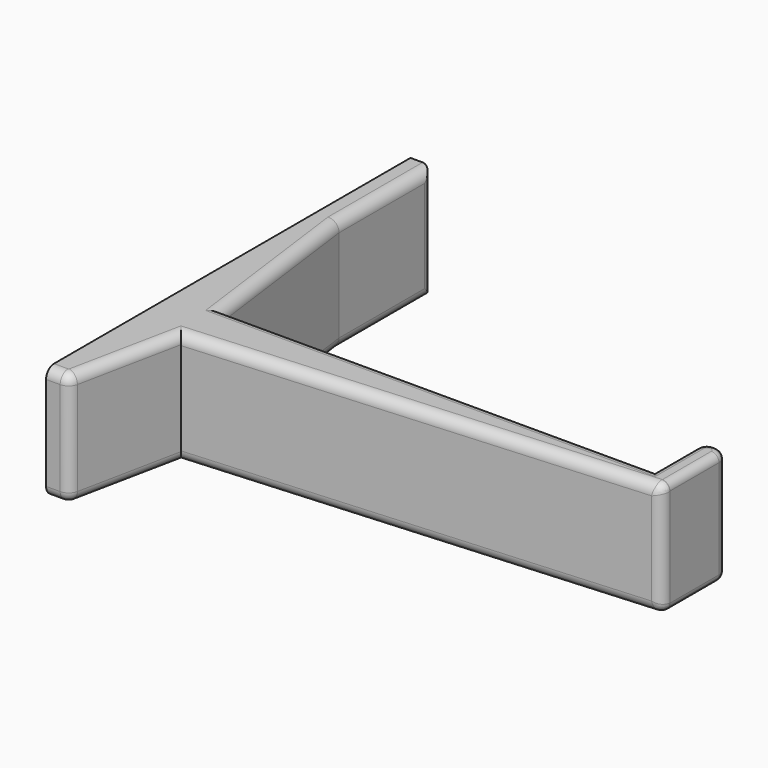
from build123d import *

# Parameters (mm, degrees)
PAD_DEPTH   = 15
FILLET_R    = 1.4
FILLET001_R = 1
FILLET002_R = 1.3


with BuildPart() as part:
    # Sketch → Pad (new body)
    with BuildSketch(Plane.XY):
        Polygon((0, 0), (0, -60), (3, -60), (6, -45.303062), (66, -41.100273), (66, -30.303062), (63, -30.303062), (63, -38.303062), (6, -38.303062), (3, -15.499553), (3, 0), align=None)
    extrude(amount=PAD_DEPTH)

    # Fillet
    fillet_edges = [part.edges().sort_by_distance(p)[0] for p in [
        (34.5, -38.303062, 15),
        (4.5, -26.901307, 15),
        (3, -7.749777, 15),
        (3, -7.749777, 0),
        (4.5, -26.901307, 0),
        (34.5, -38.303062, 0),
        (63, -30.303062, 7.5),
        (66, -30.303062, 7.5),
        (66, -41.100273, 7.5),
        (3, -60, 7.5),
        (3, 0, 7.5),
        (36, -43.201667, 0),
        (36, -43.201667, 15),
    ]]
    fillet(fillet_edges, radius=FILLET_R)

    # Fillet001
    fillet001_edges = [part.edges().sort_by_distance(p)[0] for p in [
        (63, -35.003062, 0),
        (63, -35.003062, 15),
    ]]
    fillet(fillet001_edges, radius=FILLET001_R)

    # Fillet002
    fillet002_edges = [part.edges().sort_by_distance(p)[0] for p in [
        (4.61431, -52.091531, 15),
        (4.61431, -52.091531, 0),
    ]]
    fillet(fillet002_edges, radius=FILLET002_R)


solid = part.part
